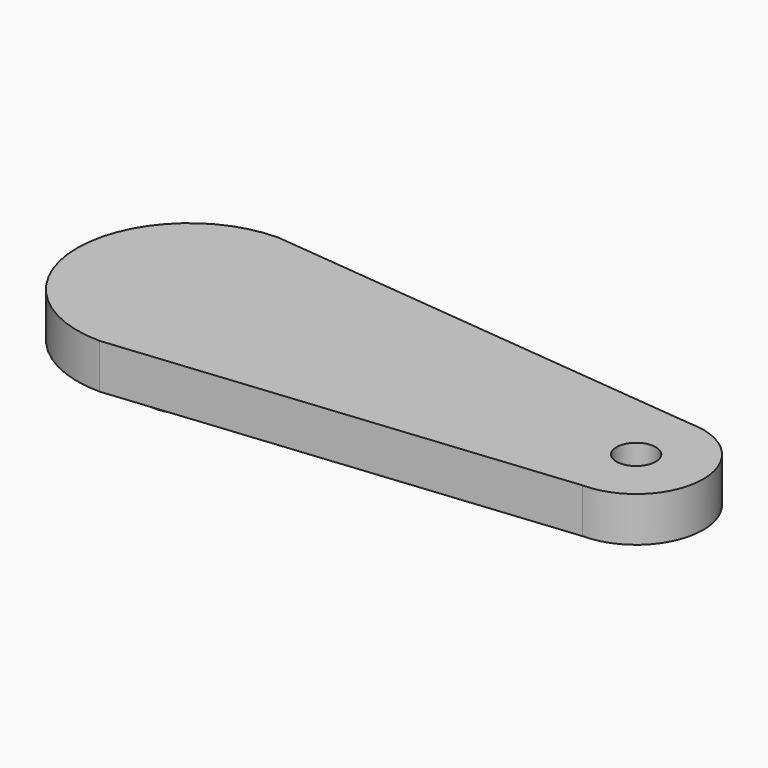
from build123d import *

# Parameters (mm, degrees)
PAD_DEPTH    = 25
SKETCH001_R  = 48
PAD001_DEPTH = 48
SKETCH002_R  = 22
POCKET_DEPTH = 51


with BuildPart() as part:
    # Sketch → Pad (new body, symmetric)
    with BuildSketch(Plane.XY):
        with BuildLine():
            ThreePointArc((0, 125), (-125, 0), (0, -125))
            Line((0, -125), (500, -75))
            ThreePointArc((500, -75), (575, 0), (500, 75))
            Line((0, 125), (500, 75))
        make_face()
    extrude(amount=PAD_DEPTH, both=True)

    # Sketch001 (on Face5 of Pad) → Pad001 (join)
    with BuildSketch(Plane(origin=(0, 0, -25), x_dir=(1, 0, 0), z_dir=(0, 0, -1))):
        Circle(SKETCH001_R)
    extrude(amount=PAD001_DEPTH)

    # Sketch002 (on Face5 of Pad001) → Pocket (cut)
    with BuildSketch(Plane.XY.offset(25)):
        with Locations((500, 0)):
            Circle(SKETCH002_R)
    extrude(amount=-POCKET_DEPTH, mode=Mode.SUBTRACT)


solid = part.part
